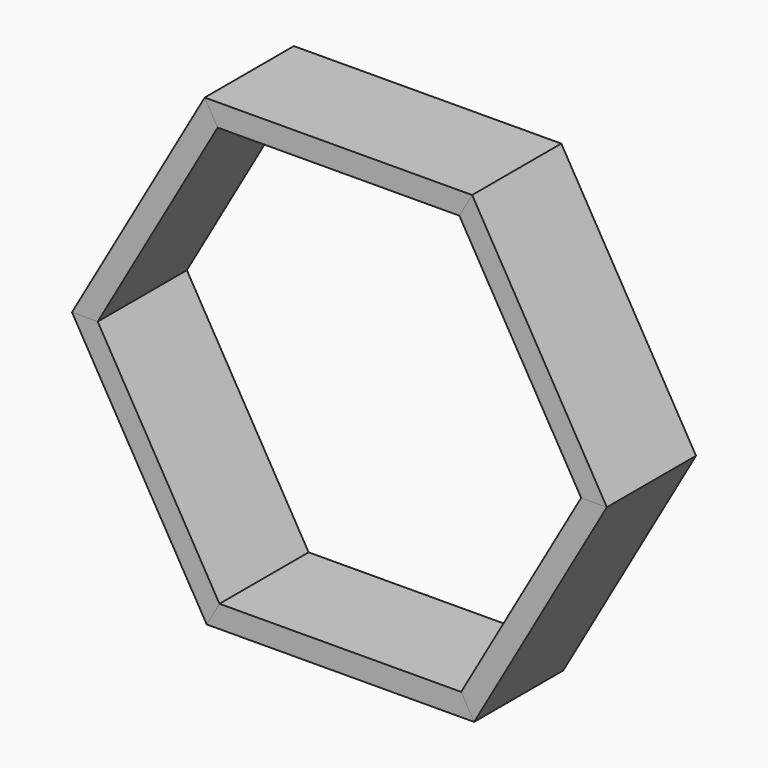
from build123d import *

# Parameters (mm, degrees)
F1_DEPTH = 50
F2_DEPTH = 50
F3_DEPTH = 50
F4_DEPTH = 50
F5_DEPTH = 50
F6_DEPTH = 50


with BuildPart() as f1:
    # F0 (on Front) → F1 (new body)
    with BuildSketch(Plane.XZ):
        Polygon((59.553777, 104.179401), (-60.44512, 103.664784), (-54.628786, 93.689636), (53.823212, 94.154734), align=None)
    extrude(amount=F1_DEPTH)


with BuildPart() as f2:
    # F0 (on Front) → F2 (new body)
    with BuildSketch(Plane.XZ):
        Polygon((-60.44512, 103.664784), (-119.998897, -0.514617), (-108.451997, -0.465098), (-54.628786, 93.689636), align=None)
    extrude(amount=F2_DEPTH)


with BuildPart() as f3:
    # F0 (on Front) → F3 (new body)
    with BuildSketch(Plane.XZ):
        Polygon((-108.451997, -0.465098), (-119.998897, -0.514617), (-59.553777, -104.179401), (-53.823212, -94.154734), align=None)
    extrude(amount=F3_DEPTH)


with BuildPart() as f4:
    # F0 (on Front) → F4 (new body)
    with BuildSketch(Plane.XZ):
        Polygon((-53.823212, -94.154734), (-59.553777, -104.179401), (60.44512, -103.664784), (54.628786, -93.689636), align=None)
    extrude(amount=F4_DEPTH)


with BuildPart() as f5:
    # F0 (on Front) → F5 (new body)
    with BuildSketch(Plane.XZ):
        Polygon((54.628786, -93.689636), (60.44512, -103.664784), (119.998897, 0.514617), (108.451997, 0.465098), align=None)
    extrude(amount=F5_DEPTH)


with BuildPart() as f6:
    # F0 (on Front) → F6 (new body)
    with BuildSketch(Plane.XZ):
        Polygon((119.998897, 0.514617), (59.553777, 104.179401), (53.823212, 94.154734), (108.451997, 0.465098), align=None)
    extrude(amount=F6_DEPTH)


solid = Compound([f1.part, f2.part, f3.part, f4.part, f5.part, f6.part])
